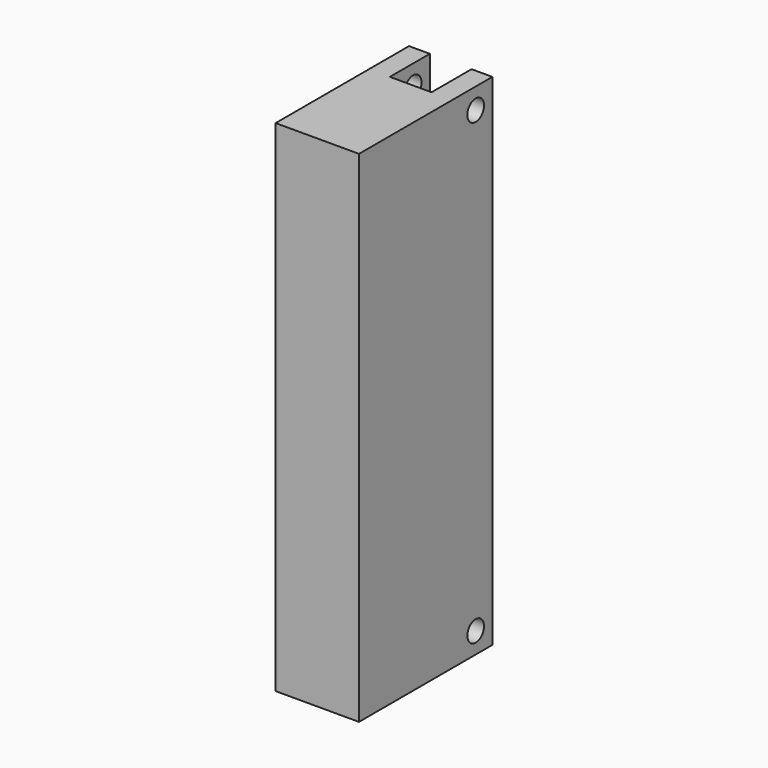
from build123d import *

# Parameters (mm, degrees)
CYLINDER040_R     = 2.5
CYLINDER040_DEPTH = 20
CYLINDER039_R     = 2.5
CYLINDER039_DEPTH = 20
BOX012_W          = 10
BOX012_H          = 12
BOX012_DEPTH      = 120
BOX013_W          = 20
BOX013_H          = 40
BOX013_DEPTH      = 120


with BuildPart() as cilindro027:
    # Cylinder040 → Cylinder040 (new body)
    with BuildSketch(Plane(origin=(-10, 59, 115), x_dir=(0, 0, -1), z_dir=(1, 0, 0))):
        Circle(CYLINDER040_R)
    extrude(amount=CYLINDER040_DEPTH)


with BuildPart() as obj1:
    # Cylinder039 → Cylinder039 (new body)
    with BuildSketch(Plane(origin=(-10, 59, 5), x_dir=(0, 0, -1), z_dir=(1, 0, 0))):
        Circle(CYLINDER039_R)
    extrude(amount=CYLINDER039_DEPTH)

    # Fusion021: union Cilindro027
    add(cilindro027.part)


with BuildPart() as obj1_1:
    # Fusion021 placement: moved
    add(obj1.part.moved(Location((0, -60, 0))))


with BuildPart() as cubo012:
    # Box012 → Box012 (new body)
    with BuildSketch(Plane(origin=(-5, -72, 0), x_dir=(1, 0, 0), z_dir=(0, 0, 1))):
        with Locations((5, 6)):
            Rectangle(BOX012_W, BOX012_H)
    extrude(amount=BOX012_DEPTH)


with BuildPart() as cut037:
    # Box013 → Box013 (new body)
    with BuildSketch(Plane(origin=(-10, -100, 0), x_dir=(1, 0, 0), z_dir=(0, 0, 1))):
        with Locations((10, 20)):
            Rectangle(BOX013_W, BOX013_H)
    extrude(amount=BOX013_DEPTH)

    # Cut036: cut Cubo012
    add(cubo012.part, mode=Mode.SUBTRACT)


with BuildPart() as cut037_1:
    # Cut036 placement: moved
    add(cut037.part.moved(Location((0, 64, 0))))

    # Cut037: cut obj1
    add(obj1_1.part, mode=Mode.SUBTRACT)


solid = cut037_1.part
